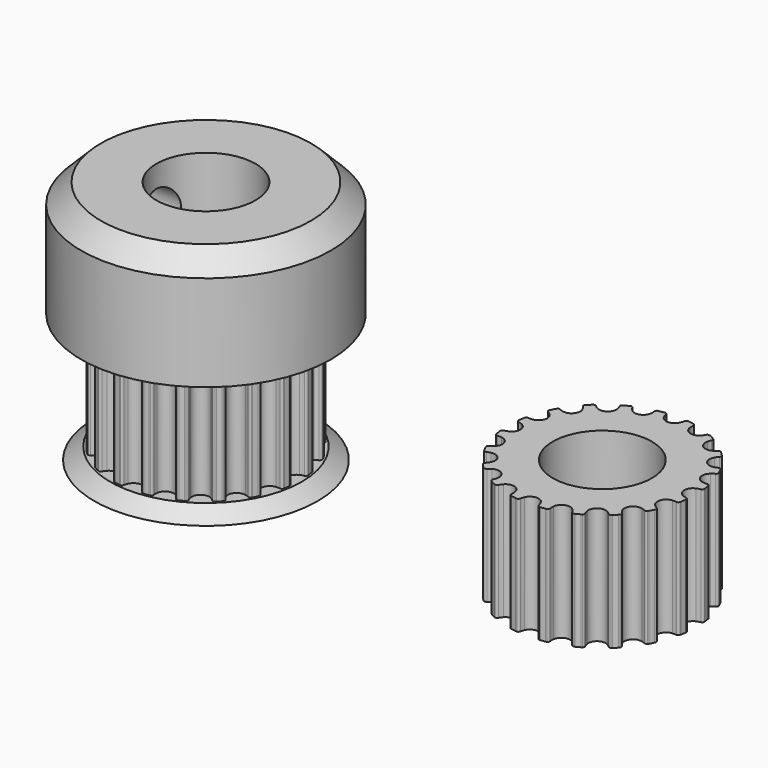
from build123d import *

# Parameters (mm, degrees)
F1_DEPTH  = 7.5
F2_R      = 8
F3_DEPTH  = 9
F4_R      = 8
F5_DEPTH  = 1.5
F6_R      = 2.5
F7_DEPTH  = 18.001
F8_R      = 1.5
F9_DEPTH  = 8.001
F10_R     = 3.175
F11_DEPTH = 25.4
F12_R     = 8
F13_DEPTH = 1.5
F16_W     = 19.5898441598
F16_H     = 1.5875
F16_W_2   = 20.9396742284
F16_H_2   = 1.143
F17_DEPTH = 12.7
F18_SIZE  = 1.27
F20_R     = 13.3651736969
F21_DEPTH = 7.4125
F22_R     = 11.2280839011
F23_DEPTH = 0.762


with BuildPart() as f1:
    # F0 (on Top) → F1 (new body)
    with BuildSketch(Plane.XY):
        with BuildLine():
            ThreePointArc((-0.5137469529, -5.5950260293), (0, -5.25), (0.5137469529, -5.5950260293))
            ThreePointArc((0.5137469529, -5.5950260293), (0.5592692601, -5.7125893356), (0.5896381917, -5.8349459432))
            ThreePointArc((0.5896381917, -5.8349459432), (0.634011817, -5.9169199806), (0.718236871, -5.9568562008))
            ThreePointArc((0.718236871, -5.9568562008), (0.7555100891, -5.952243653), (0.7927537045, -5.9473978818))
            ThreePointArc((0.7927537045, -5.9473978818), (0.9386067902, -5.9261300436), (1.0838934413, -5.9012858775))
            ThreePointArc((1.0838934413, -5.9012858775), (1.1208116501, -5.8943855698), (1.1576859427, -5.8872543055))
            ThreePointArc((1.1576859427, -5.8872543055), (1.2254477584, -5.82324573), (1.2423182132, -5.7315715833))
            ThreePointArc((1.2423182132, -5.7315715833), (1.2333905124, -5.6058190183), (1.2403557397, -5.4799425032))
            ThreePointArc((1.2403557397, -5.4799425032), (1.6223392205, -4.9930467105), (2.2175605143, -5.1624294247))
            ThreePointArc((2.2175605143, -5.1624294247), (2.2971838607, -5.2601716067), (2.3638767022, -5.3671551397))
            ThreePointArc((2.3638767022, -5.3671551397), (2.4314098983, -5.4314048778), (2.5238536555, -5.4433595073))
            ThreePointArc((2.5238536555, -5.4433595073), (2.5578772368, -5.4274546558), (2.5918005942, -5.4113371434))
            ThreePointArc((2.5918005942, -5.4113371434), (2.7239429984, -5.3460391451), (2.8544415451, -5.2775148949))
            ThreePointArc((2.8544415451, -5.2775148949), (2.8874205358, -5.2595439583), (2.9202863902, -5.2413669399))
            ThreePointArc((2.9202863902, -5.2413669399), (2.964951969, -5.1595516144), (2.9526678557, -5.0671510626))
            ThreePointArc((2.9526678557, -5.0671510626), (2.905317428, -4.9503120775), (2.8730437705, -4.828444024))
            ThreePointArc((2.8730437705, -4.828444024), (3.0858725745, -4.2473392205), (3.7043038019, -4.2244982593))
            ThreePointArc((3.7043038019, -4.2244982593), (3.8102340997, -4.2928516312), (3.906722491, -4.373989796))
            ThreePointArc((3.906722491, -4.373989796), (3.9908046381, -4.4142260228), (4.0824180595, -4.3970288591))
            ThreePointArc((4.0824180595, -4.3970288591), (4.1098615388, -4.3713885816), (4.1371439837, -4.3455770225))
            ThreePointArc((4.1371439837, -4.3455770225), (4.2426406871, -4.2426406871), (4.3455770225, -4.1371439837))
            ThreePointArc((4.3455770225, -4.1371439837), (4.3713885816, -4.1098615388), (4.3970288591, -4.0824180595))
            ThreePointArc((4.3970288591, -4.0824180595), (4.4142260228, -3.9908046381), (4.373989796, -3.906722491))
            ThreePointArc((4.373989796, -3.906722491), (4.2928516312, -3.8102340997), (4.2244982593, -3.7043038019))
            ThreePointArc((4.2244982593, -3.7043038019), (4.2473392205, -3.0858725745), (4.828444024, -2.8730437705))
            ThreePointArc((4.828444024, -2.8730437705), (4.9503120775, -2.905317428), (5.0671510626, -2.9526678557))
            ThreePointArc((5.0671510626, -2.9526678557), (5.1595516144, -2.964951969), (5.2413669399, -2.9202863902))
            ThreePointArc((5.2413669399, -2.9202863902), (5.2595439583, -2.8874205358), (5.2775148949, -2.8544415451))
            ThreePointArc((5.2775148949, -2.8544415451), (5.3460391451, -2.7239429984), (5.4113371434, -2.5918005942))
            ThreePointArc((5.4113371434, -2.5918005942), (5.4432427829, -2.4673716464), (5.3671551397, -2.3638767022))
            ThreePointArc((5.3671551397, -2.3638767022), (5.2601716067, -2.2971838607), (5.1624294247, -2.2175605143))
            ThreePointArc((5.1624294247, -2.2175605143), (4.9930467105, -1.6223392205), (5.4799425032, -1.2403557397))
            ThreePointArc((5.4799425032, -1.2403557397), (5.6058190183, -1.2333905124), (5.7315715833, -1.2423182132))
            ThreePointArc((5.7315715833, -1.2423182132), (5.82324573, -1.2254477584), (5.8872543055, -1.1576859427))
            ThreePointArc((5.8872543055, -1.1576859427), (5.8943855698, -1.1208116501), (5.9012858775, -1.0838934413))
            ThreePointArc((5.9012858775, -1.0838934413), (5.9261300436, -0.9386067902), (5.9473978818, -0.7927537045))
            ThreePointArc((5.9473978818, -0.7927537045), (5.952243653, -0.7555100891), (5.9568562008, -0.718236871))
            ThreePointArc((5.9568562008, -0.718236871), (5.9169199806, -0.634011817), (5.8349459432, -0.5896381917))
            ThreePointArc((5.8349459432, -0.5896381917), (5.7125893356, -0.5592692601), (5.5950260293, -0.5137469529))
            ThreePointArc((5.5950260293, -0.5137469529), (5.25, 0), (5.5950260293, 0.5137469529))
            ThreePointArc((5.5950260293, 0.5137469529), (5.7125893356, 0.5592692601), (5.8349459432, 0.5896381917))
            ThreePointArc((5.8349459432, 0.5896381917), (5.9169199806, 0.634011817), (5.9568562008, 0.718236871))
            ThreePointArc((5.9568562008, 0.718236871), (5.952243653, 0.7555100891), (5.9473978818, 0.7927537045))
            ThreePointArc((5.9473978818, 0.7927537045), (5.9261300436, 0.9386067902), (5.9012858775, 1.0838934413))
            ThreePointArc((5.9012858775, 1.0838934413), (5.8943855698, 1.1208116501), (5.8872543055, 1.1576859427))
            ThreePointArc((5.8872543055, 1.1576859427), (5.82324573, 1.2254477584), (5.7315715833, 1.2423182132))
            ThreePointArc((5.7315715833, 1.2423182132), (5.6058190183, 1.2333905124), (5.4799425032, 1.2403557397))
            ThreePointArc((5.4799425032, 1.2403557397), (4.9930467105, 1.6223392205), (5.1624294247, 2.2175605143))
            ThreePointArc((5.1624294247, 2.2175605143), (5.2601716067, 2.2971838607), (5.3671551397, 2.3638767022))
            ThreePointArc((5.3671551397, 2.3638767022), (5.4314048778, 2.4314098983), (5.4433595073, 2.5238536555))
            ThreePointArc((5.4433595073, 2.5238536555), (5.4274546558, 2.5578772368), (5.4113371434, 2.5918005942))
            ThreePointArc((5.4113371434, 2.5918005942), (5.3460391451, 2.7239429984), (5.2775148949, 2.8544415451))
            ThreePointArc((5.2775148949, 2.8544415451), (5.2595439583, 2.8874205358), (5.2413669399, 2.9202863902))
            ThreePointArc((5.2413669399, 2.9202863902), (5.1595516144, 2.964951969), (5.0671510626, 2.9526678557))
            ThreePointArc((5.0671510626, 2.9526678557), (4.9503120775, 2.905317428), (4.828444024, 2.8730437705))
            ThreePointArc((4.828444024, 2.8730437705), (4.2473392205, 3.0858725745), (4.2244982593, 3.7043038019))
            ThreePointArc((4.2244982593, 3.7043038019), (4.2928516312, 3.8102340997), (4.373989796, 3.906722491))
            ThreePointArc((4.373989796, 3.906722491), (4.4142260228, 3.9908046381), (4.3970288591, 4.0824180595))
            ThreePointArc((4.3970288591, 4.0824180595), (4.3713885816, 4.1098615388), (4.3455770225, 4.1371439837))
            ThreePointArc((4.3455770225, 4.1371439837), (4.2426406871, 4.2426406871), (4.1371439837, 4.3455770225))
            ThreePointArc((4.1371439837, 4.3455770225), (4.1098615388, 4.3713885816), (4.0824180595, 4.3970288591))
            ThreePointArc((4.0824180595, 4.3970288591), (3.9908046381, 4.4142260228), (3.906722491, 4.373989796))
            ThreePointArc((3.906722491, 4.373989796), (3.8102340997, 4.2928516312), (3.7043038019, 4.2244982593))
            ThreePointArc((3.7043038019, 4.2244982593), (3.0858725745, 4.2473392205), (2.8730437705, 4.828444024))
            ThreePointArc((2.8730437705, 4.828444024), (2.905317428, 4.9503120775), (2.9526678557, 5.0671510626))
            ThreePointArc((2.9526678557, 5.0671510626), (2.964951969, 5.1595516144), (2.9202863902, 5.2413669399))
            ThreePointArc((2.9202863902, 5.2413669399), (2.8874205358, 5.2595439583), (2.8544415451, 5.2775148949))
            ThreePointArc((2.8544415451, 5.2775148949), (2.7239429984, 5.3460391451), (2.5918005942, 5.4113371434))
            ThreePointArc((2.5918005942, 5.4113371434), (2.5578772368, 5.4274546558), (2.5238536555, 5.4433595073))
            ThreePointArc((2.5238536555, 5.4433595073), (2.4314098983, 5.4314048778), (2.3638767022, 5.3671551397))
            ThreePointArc((2.3638767022, 5.3671551397), (2.2971838607, 5.2601716067), (2.2175605143, 5.1624294247))
            ThreePointArc((2.2175605143, 5.1624294247), (1.6223392205, 4.9930467105), (1.2403557397, 5.4799425032))
            ThreePointArc((1.2403557397, 5.4799425032), (1.2333905124, 5.6058190183), (1.2423182132, 5.7315715833))
            ThreePointArc((1.2423182132, 5.7315715833), (1.2254477584, 5.82324573), (1.1576859427, 5.8872543055))
            ThreePointArc((1.1576859427, 5.8872543055), (1.1208116501, 5.8943855698), (1.0838934413, 5.9012858775))
            ThreePointArc((1.0838934413, 5.9012858775), (0.9386067902, 5.9261300436), (0.7927537045, 5.9473978818))
            ThreePointArc((0.7927537045, 5.9473978818), (0.7555100891, 5.952243653), (0.718236871, 5.9568562008))
            ThreePointArc((0.718236871, 5.9568562008), (0.634011817, 5.9169199806), (0.5896381917, 5.8349459432))
            ThreePointArc((0.5896381917, 5.8349459432), (0.5592692601, 5.7125893356), (0.5137469529, 5.5950260293))
            ThreePointArc((0.5137469529, 5.5950260293), (0, 5.25), (-0.5137469529, 5.5950260293))
            ThreePointArc((-0.5137469529, 5.5950260293), (-0.5592692601, 5.7125893356), (-0.5896381917, 5.8349459432))
            ThreePointArc((-0.5896381917, 5.8349459432), (-0.634011817, 5.9169199806), (-0.718236871, 5.9568562008))
            ThreePointArc((-0.718236871, 5.9568562008), (-0.7555100891, 5.952243653), (-0.7927537045, 5.9473978818))
            ThreePointArc((-0.7927537045, 5.9473978818), (-0.9386067902, 5.9261300436), (-1.0838934413, 5.9012858775))
            ThreePointArc((-1.0838934413, 5.9012858775), (-1.1208116501, 5.8943855698), (-1.1576859427, 5.8872543055))
            ThreePointArc((-1.1576859427, 5.8872543055), (-1.2254477584, 5.82324573), (-1.2423182132, 5.7315715833))
            ThreePointArc((-1.2423182132, 5.7315715833), (-1.2333905124, 5.6058190183), (-1.2403557397, 5.4799425032))
            ThreePointArc((-1.2403557397, 5.4799425032), (-1.6223392205, 4.9930467105), (-2.2175605143, 5.1624294247))
            ThreePointArc((-2.2175605143, 5.1624294247), (-2.2971838607, 5.2601716067), (-2.3638767022, 5.3671551397))
            ThreePointArc((-2.3638767022, 5.3671551397), (-2.4314098983, 5.4314048778), (-2.5238536555, 5.4433595073))
            ThreePointArc((-2.5238536555, 5.4433595073), (-2.5578772368, 5.4274546558), (-2.5918005942, 5.4113371434))
            ThreePointArc((-2.5918005942, 5.4113371434), (-2.7239429984, 5.3460391451), (-2.8544415451, 5.2775148949))
            ThreePointArc((-2.8544415451, 5.2775148949), (-2.8874205358, 5.2595439583), (-2.9202863902, 5.2413669399))
            ThreePointArc((-2.9202863902, 5.2413669399), (-2.964951969, 5.1595516144), (-2.9526678557, 5.0671510626))
            ThreePointArc((-2.9526678557, 5.0671510626), (-2.905317428, 4.9503120775), (-2.8730437705, 4.828444024))
            ThreePointArc((-2.8730437705, 4.828444024), (-3.0858725745, 4.2473392205), (-3.7043038019, 4.2244982593))
            ThreePointArc((-3.7043038019, 4.2244982593), (-3.8102340997, 4.2928516312), (-3.906722491, 4.373989796))
            ThreePointArc((-3.906722491, 4.373989796), (-3.9908046381, 4.4142260228), (-4.0824180595, 4.3970288591))
            ThreePointArc((-4.0824180595, 4.3970288591), (-4.1098615388, 4.3713885816), (-4.1371439837, 4.3455770225))
            ThreePointArc((-4.1371439837, 4.3455770225), (-4.2426406871, 4.2426406871), (-4.3455770225, 4.1371439837))
            ThreePointArc((-4.3455770225, 4.1371439837), (-4.3713885816, 4.1098615388), (-4.3970288591, 4.0824180595))
            ThreePointArc((-4.3970288591, 4.0824180595), (-4.4142260228, 3.9908046381), (-4.373989796, 3.906722491))
            ThreePointArc((-4.373989796, 3.906722491), (-4.2928516312, 3.8102340997), (-4.2244982593, 3.7043038019))
            ThreePointArc((-4.2244982593, 3.7043038019), (-4.2473392205, 3.0858725745), (-4.828444024, 2.8730437705))
            ThreePointArc((-4.828444024, 2.8730437705), (-4.9503120775, 2.905317428), (-5.0671510626, 2.9526678557))
            ThreePointArc((-5.0671510626, 2.9526678557), (-5.1595516144, 2.964951969), (-5.2413669399, 2.9202863902))
            ThreePointArc((-5.2413669399, 2.9202863902), (-5.2595439583, 2.8874205358), (-5.2775148949, 2.8544415451))
            ThreePointArc((-5.2775148949, 2.8544415451), (-5.3460391451, 2.7239429984), (-5.4113371434, 2.5918005942))
            ThreePointArc((-5.4113371434, 2.5918005942), (-5.4274546558, 2.5578772368), (-5.4433595073, 2.5238536555))
            ThreePointArc((-5.4433595073, 2.5238536555), (-5.4314048778, 2.4314098983), (-5.3671551397, 2.3638767022))
            ThreePointArc((-5.3671551397, 2.3638767022), (-5.2601716067, 2.2971838607), (-5.1624294247, 2.2175605143))
            ThreePointArc((-5.1624294247, 2.2175605143), (-4.9930467105, 1.6223392205), (-5.4799425032, 1.2403557397))
            ThreePointArc((-5.4799425032, 1.2403557397), (-5.6058190183, 1.2333905124), (-5.7315715833, 1.2423182132))
            ThreePointArc((-5.7315715833, 1.2423182132), (-5.82324573, 1.2254477584), (-5.8872543055, 1.1576859427))
            ThreePointArc((-5.8872543055, 1.1576859427), (-5.8943855698, 1.1208116501), (-5.9012858775, 1.0838934413))
            ThreePointArc((-5.9012858775, 1.0838934413), (-5.9261300436, 0.9386067902), (-5.9473978818, 0.7927537045))
            ThreePointArc((-5.9473978818, 0.7927537045), (-5.952243653, 0.7555100891), (-5.9568562008, 0.718236871))
            ThreePointArc((-5.9568562008, 0.718236871), (-5.9169199806, 0.634011817), (-5.8349459432, 0.5896381917))
            ThreePointArc((-5.8349459432, 0.5896381917), (-5.7125893356, 0.5592692601), (-5.5950260293, 0.5137469529))
            ThreePointArc((-5.5950260293, 0.5137469529), (-5.25, 0), (-5.5950260293, -0.5137469529))
            ThreePointArc((-5.5950260293, -0.5137469529), (-5.7125893356, -0.5592692601), (-5.8349459432, -0.5896381917))
            ThreePointArc((-5.8349459432, -0.5896381917), (-5.9169199806, -0.634011817), (-5.9568562008, -0.718236871))
            ThreePointArc((-5.9568562008, -0.718236871), (-5.952243653, -0.7555100891), (-5.9473978818, -0.7927537045))
            ThreePointArc((-5.9473978818, -0.7927537045), (-5.9261300436, -0.9386067902), (-5.9012858775, -1.0838934413))
            ThreePointArc((-5.9012858775, -1.0838934413), (-5.8943855698, -1.1208116501), (-5.8872543055, -1.1576859427))
            ThreePointArc((-5.8872543055, -1.1576859427), (-5.82324573, -1.2254477584), (-5.7315715833, -1.2423182132))
            ThreePointArc((-5.7315715833, -1.2423182132), (-5.6058190183, -1.2333905124), (-5.4799425032, -1.2403557397))
            ThreePointArc((-5.4799425032, -1.2403557397), (-4.9930467105, -1.6223392205), (-5.1624294247, -2.2175605143))
            ThreePointArc((-5.1624294247, -2.2175605143), (-5.2601716067, -2.2971838607), (-5.3671551397, -2.3638767022))
            ThreePointArc((-5.3671551397, -2.3638767022), (-5.4314048778, -2.4314098983), (-5.4433595073, -2.5238536555))
            ThreePointArc((-5.4433595073, -2.5238536555), (-5.4274546558, -2.5578772368), (-5.4113371434, -2.5918005942))
            ThreePointArc((-5.4113371434, -2.5918005942), (-5.3460391451, -2.7239429984), (-5.2775148949, -2.8544415451))
            ThreePointArc((-5.2775148949, -2.8544415451), (-5.2595439583, -2.8874205358), (-5.2413669399, -2.9202863902))
            ThreePointArc((-5.2413669399, -2.9202863902), (-5.1595516144, -2.964951969), (-5.0671510626, -2.9526678557))
            ThreePointArc((-5.0671510626, -2.9526678557), (-4.9503120775, -2.905317428), (-4.828444024, -2.8730437705))
            ThreePointArc((-4.828444024, -2.8730437705), (-4.2473392205, -3.0858725745), (-4.2244982593, -3.7043038019))
            ThreePointArc((-4.2244982593, -3.7043038019), (-4.2928516312, -3.8102340997), (-4.373989796, -3.906722491))
            ThreePointArc((-4.373989796, -3.906722491), (-4.4142260228, -3.9908046381), (-4.3970288591, -4.0824180595))
            ThreePointArc((-4.3970288591, -4.0824180595), (-4.3713885816, -4.1098615388), (-4.3455770225, -4.1371439837))
            ThreePointArc((-4.3455770225, -4.1371439837), (-4.2426406871, -4.2426406871), (-4.1371439837, -4.3455770225))
            ThreePointArc((-4.1371439837, -4.3455770225), (-4.1098615388, -4.3713885816), (-4.0824180595, -4.3970288591))
            ThreePointArc((-4.0824180595, -4.3970288591), (-3.9908046381, -4.4142260228), (-3.906722491, -4.373989796))
            ThreePointArc((-3.906722491, -4.373989796), (-3.8102340997, -4.2928516312), (-3.7043038019, -4.2244982593))
            ThreePointArc((-3.7043038019, -4.2244982593), (-3.0858725745, -4.2473392205), (-2.8730437705, -4.828444024))
            ThreePointArc((-2.8730437705, -4.828444024), (-2.905317428, -4.9503120775), (-2.9526678557, -5.0671510626))
            ThreePointArc((-2.9526678557, -5.0671510626), (-2.964951969, -5.1595516144), (-2.9202863902, -5.2413669399))
            ThreePointArc((-2.9202863902, -5.2413669399), (-2.8874205358, -5.2595439583), (-2.8544415451, -5.2775148949))
            ThreePointArc((-2.8544415451, -5.2775148949), (-2.7239429984, -5.3460391451), (-2.5918005942, -5.4113371434))
            ThreePointArc((-2.5918005942, -5.4113371434), (-2.5578772368, -5.4274546558), (-2.5238536555, -5.4433595073))
            ThreePointArc((-2.5238536555, -5.4433595073), (-2.4314098983, -5.4314048778), (-2.3638767022, -5.3671551397))
            ThreePointArc((-2.3638767022, -5.3671551397), (-2.2971838607, -5.2601716067), (-2.2175605143, -5.1624294247))
            ThreePointArc((-2.2175605143, -5.1624294247), (-1.6223392205, -4.9930467105), (-1.2403557397, -5.4799425032))
            ThreePointArc((-1.2403557397, -5.4799425032), (-1.2333905124, -5.6058190183), (-1.2423182132, -5.7315715833))
            ThreePointArc((-1.2423182132, -5.7315715833), (-1.2254477584, -5.82324573), (-1.1576859427, -5.8872543055))
            ThreePointArc((-1.1576859427, -5.8872543055), (-1.1208116501, -5.8943855698), (-1.0838934413, -5.9012858775))
            ThreePointArc((-1.0838934413, -5.9012858775), (-0.9386067902, -5.9261300436), (-0.7927537045, -5.9473978818))
            ThreePointArc((-0.7927537045, -5.9473978818), (-0.7555100891, -5.952243653), (-0.718236871, -5.9568562008))
            ThreePointArc((-0.718236871, -5.9568562008), (-0.634011817, -5.9169199806), (-0.5896381917, -5.8349459432))
            ThreePointArc((-0.5896381917, -5.8349459432), (-0.5592692601, -5.7125893356), (-0.5137469529, -5.5950260293))
        make_face()
    extrude(amount=F1_DEPTH)

    # F2 (on face) → F3 (join)
    with BuildSketch(Plane.XY.offset(7.5)):
        Circle(F2_R)
    extrude(amount=F3_DEPTH)

    # F4 (on face) → F5 (join)
    with BuildSketch(Plane(origin=(0, 0, 0), x_dir=(1, 0, 0), z_dir=(0, 0, -1))):
        Circle(F4_R)
    extrude(amount=F5_DEPTH)

    # F6 (on face) → F7 (cut, through all)
    with BuildSketch(Plane(origin=(0, 0, -1.5), x_dir=(1, 0, 0), z_dir=(0, 0, -1))):
        Circle(F6_R)
    extrude(amount=-F7_DEPTH, mode=Mode.SUBTRACT)

    # F8 (on Right) → F9 (cut, through all)
    with BuildSketch(Plane.YZ):
        with Locations((0, 12)):
            Circle(F8_R)
    extrude(amount=-F9_DEPTH, mode=Mode.SUBTRACT)

    # F10 (on Top) → F11 (cut, symmetric)
    with BuildSketch(Plane.XY):
        Circle(F10_R)
    extrude(amount=F11_DEPTH, both=True, mode=Mode.SUBTRACT)

    # F12 (on face) → F13 (cut, through all)
    with BuildSketch(Plane(origin=(0, 0, -1.5), x_dir=(1, 0, 0), z_dir=(0, 0, -1))):
        Circle(F12_R)
    extrude(amount=-F13_DEPTH, mode=Mode.SUBTRACT)

    # F14 (on Front) → F15 (revolve)
    with BuildSketch(Plane.XZ):
        Polygon((6.141891703, 0), (3.175, 0), (3.175, -1.905), (8.001, -1.905), (8.001, -1.397), align=None)
    revolve(axis=Axis((0, 0, -1.2805719161), (0, 0, -1)))

    # F16 (on Front) → F17 (cut, symmetric)
    with BuildSketch(Plane.XZ):
        with Locations((0.3569000401, 15.70625)):
            Rectangle(F16_W, F16_H)
        with Locations((0.5126502365, -1.3335)):
            Rectangle(F16_W_2, F16_H_2)
    extrude(amount=F17_DEPTH, both=True, mode=Mode.SUBTRACT)

    # F18
    f18_edges = [f1.edges().sort_by_distance(p)[0] for p in [
        (-8, 0, 14.9125),
    ]]
    chamfer(f18_edges, length=F18_SIZE)


with BuildPart() as f19_1:
    # F19: copy of F1
    add(f1.part.moved(Location((25.4, 0, 0))))

    # F20 (on face) → F21 (cut, through all)
    with BuildSketch(Plane.XY.offset(14.9125)):
        with Locations((25.4, 0)):
            Circle(F20_R)
    extrude(amount=-F21_DEPTH, mode=Mode.SUBTRACT)

    # F22 (on face) → F23 (cut, through all)
    with BuildSketch(Plane(origin=(0, 0, -0.762), x_dir=(1, 0, 0), z_dir=(0, 0, -1))):
        with Locations((25.4, 0)):
            Circle(F22_R)
    extrude(amount=-F23_DEPTH, mode=Mode.SUBTRACT)


solid = Compound([f1.part, f19_1.part])
